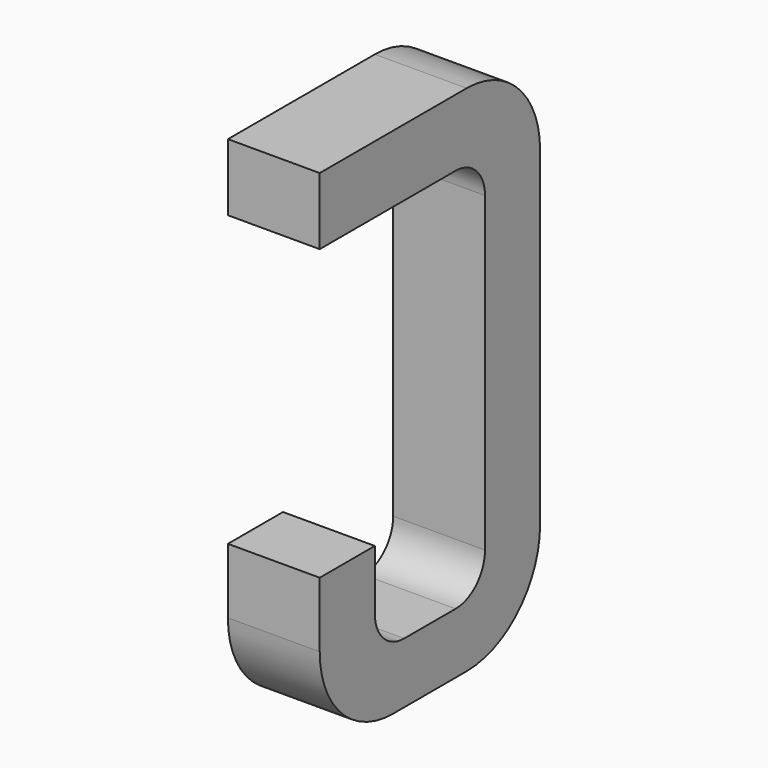
from build123d import *

# Parameters (mm, degrees)
BOX052_W     = 0.5
BOX052_H     = 1.5
BOX052_DEPTH = 2.795
FILLET170_R  = 0.5
FILLET165_R  = 0.5
FILLET169_R  = 0.5
BOX057_W     = 0.75
BOX057_H     = 2.1
BOX057_DEPTH = 1
FILLET172_R  = 0.2
FILLET173_R  = 0.2
FILLET167_R  = 0.2
FILLET171_R  = 0.2
BOX059_W     = 1
BOX059_H     = 1.575
BOX059_DEPTH = 3


with BuildPart() as part:
    # Box052 → Box052 (join)
    with BuildSketch(Plane(origin=(-0.25, 11.125, 0), x_dir=(1, 0, 0), z_dir=(0, 0, 1))):
        with Locations((0.25, 0.75)):
            Rectangle(BOX052_W, BOX052_H)
    extrude(amount=BOX052_DEPTH)

    # Fillet170
    fillet170_edges = [part.edges().sort_by_distance(p)[0] for p in [
        (0, 12.625, 0),
    ]]
    fillet(fillet170_edges, radius=FILLET170_R)

    # Fillet165
    fillet165_edges = [part.edges().sort_by_distance(p)[0] for p in [
        (0, 12.625, 2.795),
    ]]
    fillet(fillet165_edges, radius=FILLET165_R)

    # Fillet169
    fillet169_edges = [part.edges().sort_by_distance(p)[0] for p in [
        (0, 11.125, 0),
    ]]
    fillet(fillet169_edges, radius=FILLET169_R)

    # Box057 → Box057 (cut)
    with BuildSketch(Plane(origin=(-0.5, 11.5, 0.33), x_dir=(0, 1, 0), z_dir=(1, 0, 0))):
        with Locations((0.375, 1.05)):
            Rectangle(BOX057_W, BOX057_H)
    extrude(amount=BOX057_DEPTH, mode=Mode.SUBTRACT)

    # Fillet172
    fillet172_edges = [part.edges().sort_by_distance(p)[0] for p in [
        (0, 11.5, 0.33),
    ]]
    fillet(fillet172_edges, radius=FILLET172_R)

    # Fillet173
    fillet173_edges = [part.edges().sort_by_distance(p)[0] for p in [
        (0, 12.25, 0.33),
    ]]
    fillet(fillet173_edges, radius=FILLET173_R)

    # Fillet167
    fillet167_edges = [part.edges().sort_by_distance(p)[0] for p in [
        (0, 11.5, 2.43),
    ]]
    fillet(fillet167_edges, radius=FILLET167_R)

    # Fillet171
    fillet171_edges = [part.edges().sort_by_distance(p)[0] for p in [
        (0, 12.25, 2.43),
    ]]
    fillet(fillet171_edges, radius=FILLET171_R)

    # Box059 → Box059 (cut)
    with BuildSketch(Plane(origin=(-1, 11, 0.855), x_dir=(0, 1, 0), z_dir=(1, 0, 0))):
        with Locations((0.5, 0.7875)):
            Rectangle(BOX059_W, BOX059_H)
    extrude(amount=BOX059_DEPTH, mode=Mode.SUBTRACT)


with BuildPart() as part_1:
    # Body024 placement: moved
    add(part.part.moved(Location((2.54, 0, 0))))


solid = part_1.part
